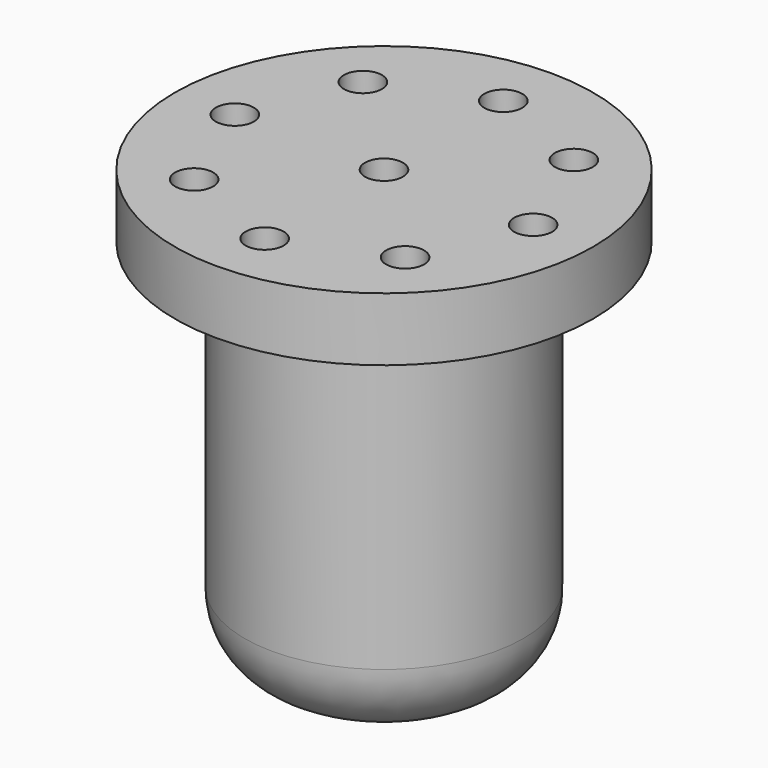
from build123d import *

# Parameters (mm, degrees)
F0_R     = 20.955
F1_DEPTH = 6.35
F3_R     = 13.97
F4_DEPTH = 38.1
F5_R     = 7.62
F2_R     = 1.905
F7_DEPTH = 2.54
F6_R     = 1.905
F8_DEPTH = 2.54


with BuildPart() as f1:
    # F0 (on Top) → F1 (new body)
    with BuildSketch(Plane.XY):
        Circle(F0_R)
    extrude(amount=F1_DEPTH)

    # F3 (on face) → F4 (join)
    with BuildSketch(Plane(origin=(0, 0, 0), x_dir=(1, 0, 0), z_dir=(0, 0, -1))):
        Circle(F3_R)
    extrude(amount=F4_DEPTH)

    # F5
    f5_edges = [f1.edges().sort_by_distance(p)[0] for p in [
        (-13.97, 0, -38.1),
    ]]
    fillet(f5_edges, radius=F5_R)

    # F2 (on face) → F7 (cut)
    with BuildSketch(Plane.XY.offset(6.35)):
        with Locations((10.57046, -10.57046)):
            Circle(F2_R)
    extrude(amount=-F7_DEPTH, mode=Mode.SUBTRACT)

    # F6 (on face) → F8 (cut)
    with BuildSketch(Plane.XY.offset(6.35)):
        with Locations((-10.57046, -10.57046)):
            Circle(F6_R)
        with Locations((10.57046, 10.57046)):
            Circle(F6_R)
        with Locations((-10.57046, 10.57046)):
            Circle(F6_R)
        Circle(F6_R)
        with Locations((0, 14.948888)):
            Circle(F6_R)
        with Locations((14.948888, 0)):
            Circle(F6_R)
        with Locations((0, -14.948888)):
            Circle(F6_R)
        with Locations((10.57046, -10.57046)):
            Circle(F6_R)
        with Locations((-14.948888, 0)):
            Circle(F6_R)
    extrude(amount=-F8_DEPTH, mode=Mode.SUBTRACT)


solid = f1.part
